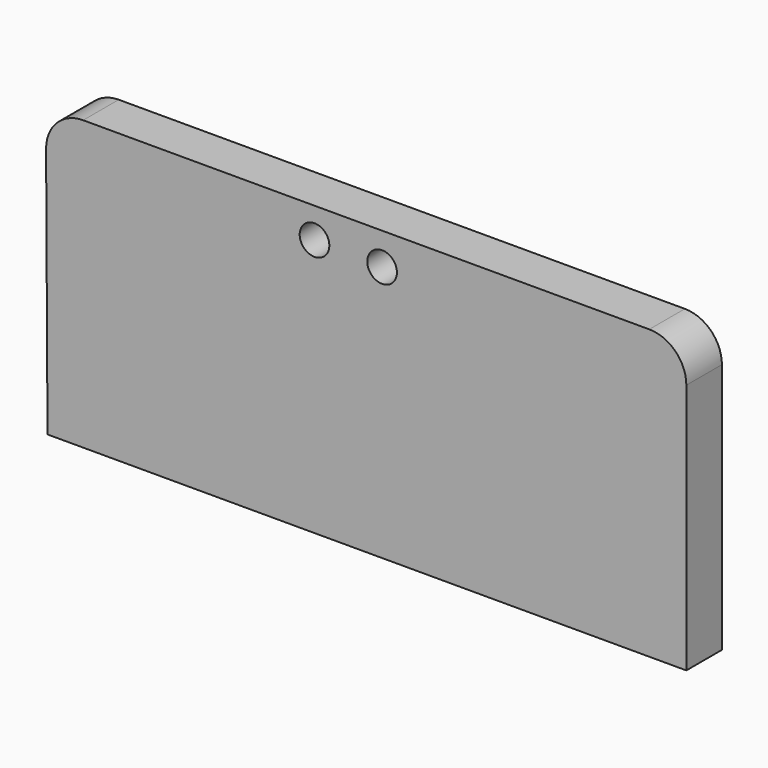
from build123d import *

# Parameters (mm, degrees)
F0_R     = 2.54
F0_W     = 1.27
F0_H     = 5.4864
F1_DEPTH = 7.62


with BuildPart() as f1:
    # F0 (on Front) → F1 (new body)
    with BuildSketch(Plane.XZ):
        with BuildLine():
            Line((50.952397, 37.338), (-46.039419, 37.338))
            ThreePointArc((-46.039419, 37.338), (-50.542284, 35.465354), (-52.389316, 30.951921))
            Line((-52.389316, 30.951921), (-52.145046, -12.0396))
            Line((-52.145046, -12.0396), (53.289197, -12.0396))
            Line((53.289197, -12.0396), (54.559197, -12.0396))
            Line((54.559197, -12.0396), (54.559197, -6.5532))
            Line((54.559197, -6.5532), (55.829197, -6.5532))
            Line((55.829197, -6.5532), (55.829197, -12.0396))
            Line((55.829197, -12.0396), (57.302397, -12.0396))
            Line((57.302397, -12.0396), (57.302397, 30.988))
            ThreePointArc((57.302397, 30.988), (55.442525, 35.478128), (50.952397, 37.338))
        make_face()
        with Locations((-6.400801, 32.1564)):
            Circle(F0_R, mode=Mode.SUBTRACT)
        with Locations((5.181602, 31.851601)):
            Circle(F0_R, mode=Mode.SUBTRACT)
        with Locations((55.194197, -9.2964)):
            Rectangle(F0_W, F0_H)
    extrude(amount=F1_DEPTH)


solid = f1.part
